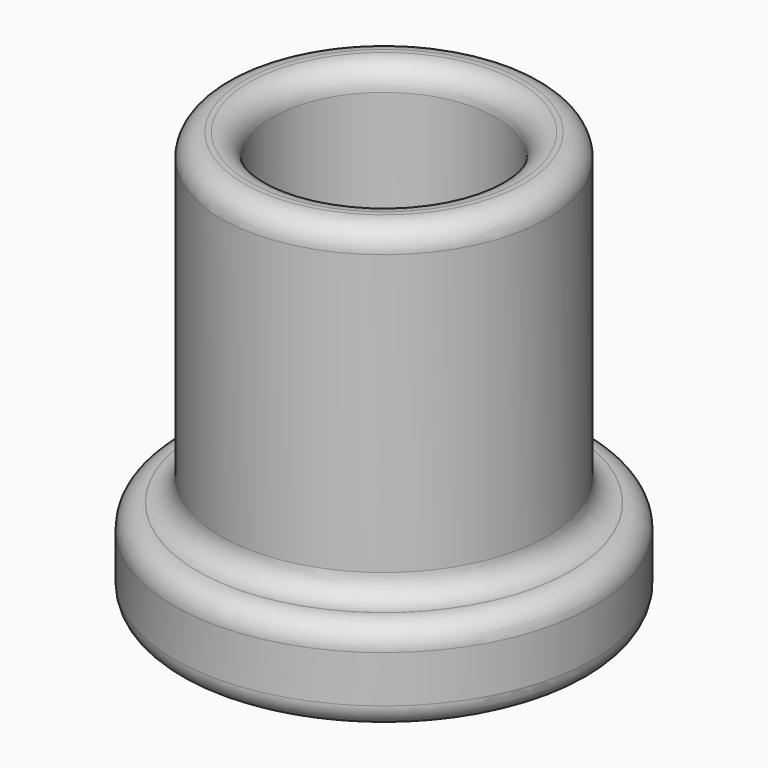
from build123d import *

# Parameters (mm, degrees)
F0_R     = 11.1125
F0_R_2   = 7.62
F1_DEPTH = 22.225
F0_R_3   = 14.2875
F0_R_4   = 5.08
F2_DEPTH = 6.35
F3_R     = 7.62
F4_DEPTH = 3.175
F5_R     = 1.5748


with BuildPart() as f1:
    # F0 (on Top) → F1 (new body)
    with BuildSketch(Plane.XY):
        Circle(F0_R)
        Circle(F0_R_2, mode=Mode.SUBTRACT)
    extrude(amount=F1_DEPTH)

    # F0 (on Top) → F2 (join)
    with BuildSketch(Plane.XY):
        Circle(F0_R_3)
        Circle(F0_R, mode=Mode.SUBTRACT)
        Circle(F0_R)
        Circle(F0_R_2, mode=Mode.SUBTRACT)
        Circle(F0_R_2)
        Circle(F0_R_4, mode=Mode.SUBTRACT)
    extrude(amount=-F2_DEPTH)

    # F3 (on face) → F4 (cut)
    with BuildSketch(Plane(origin=(0, 0, -6.35), x_dir=(1, 0, 0), z_dir=(0, 0, -1))):
        with Locations((0, 0.809055)):
            Circle(F3_R)
    extrude(amount=-F4_DEPTH, mode=Mode.SUBTRACT)

    # F5
    f5_edges = [f1.edges().sort_by_distance(p)[0] for p in [
        (7.62, 0, 11.1125),
        (-7.62, 0, 0),
        (-7.62, 0, 22.225),
        (11.1125, 0, 11.1125),
        (-11.1125, 0, 0),
        (-11.1125, 0, 22.225),
        (14.2875, 0, -3.175),
        (-14.2875, 0, 0),
        (-14.2875, 0, -6.35),
        (-7.62, -0.809055, -6.35),
    ]]
    fillet(f5_edges, radius=F5_R)


solid = f1.part
